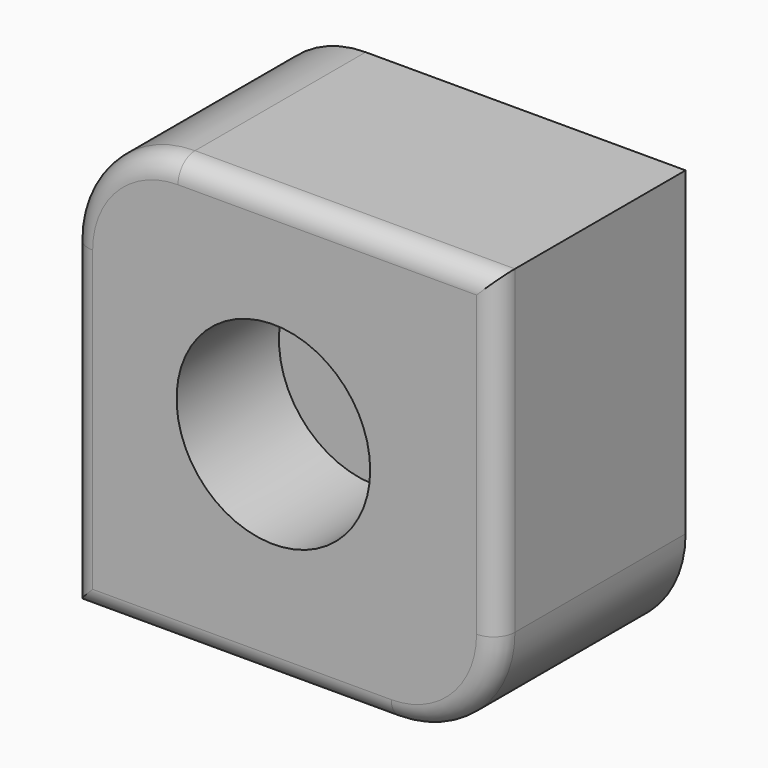
from build123d import *

# Parameters (mm, degrees)
F1_DEPTH = 60
F2_R     = 5
F3_SIZE  = 5
F4_R     = 22.693936
F5_DEPTH = 30


with BuildPart() as f1:
    # F0 (on Front) → F1 (new body)
    with BuildSketch(Plane.XZ):
        with BuildLine():
            Line((58.700657, 72.187497), (-16.299343, 72.187497))
            ThreePointArc((-16.299343, 72.187497), (-33.977013, 64.865167), (-41.299343, 47.187497))
            Line((-41.299343, 47.187497), (-41.299343, -27.812503))
            Line((-41.299343, -27.812503), (33.700657, -27.812503))
            ThreePointArc((33.700657, -27.812503), (51.378326, -20.490172), (58.700657, -2.812503))
            Line((58.700657, -2.812503), (58.700657, 72.187497))
        make_face()
    extrude(amount=F1_DEPTH)

    # F2
    f2_edges = [f1.edges().sort_by_distance(p)[0] for p in [
        (58.700657, -60, 34.687497),
        (21.200657, -60, 72.187497),
        (-33.977013, -60, 64.865167),
        (-41.299343, -60, 9.687497),
        (-3.799343, -60, -27.812503),
        (51.378326, -60, -20.490172),
    ]]
    fillet(f2_edges, radius=F2_R)

    # F3
    f3_edges = [f1.edges().sort_by_distance(p)[0] for p in [
        (58.700657, 0, 34.687497),
        (21.200657, 0, 72.187497),
        (-33.977013, 0, 64.865167),
        (-41.299343, 0, 9.687497),
        (-3.799343, 0, -27.812503),
        (51.378326, 0, -20.490172),
    ]]
    chamfer(f3_edges, length=F3_SIZE)

    # F4 (on face) → F5 (cut)
    with BuildSketch(Plane.XZ.offset(60)):
        with Locations((6.069079, 22.94408)):
            Circle(F4_R)
    extrude(amount=-F5_DEPTH, mode=Mode.SUBTRACT)


solid = f1.part
